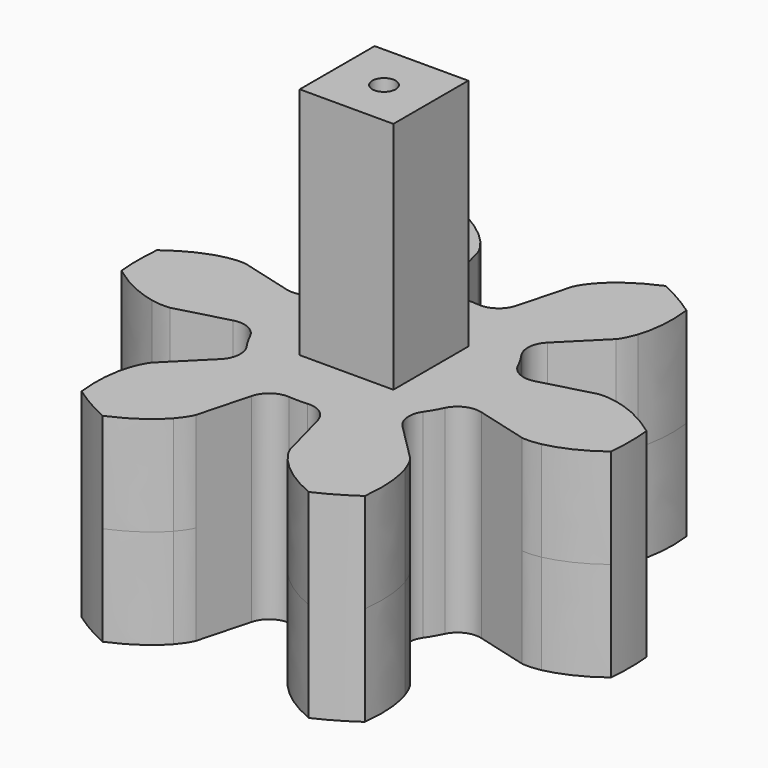
from build123d import *

# Parameters (mm, degrees)
PAD008_DEPTH    = 8.5
SKETCH005_W     = 8
SKETCH005_H     = 8
PAD009_DEPTH    = 20
SKETCH006_R     = 4.25
POCKET004_DEPTH = 16
SKETCH007_R     = 1
POCKET005_DEPTH = 37.001
CHAMFER031_SIZE = 1


with BuildPart() as part:
    # InvoluteGear008 → Pad008 (new body, symmetric)
    with BuildSketch(Plane.XY):
        with BuildLine():
            Line((10.601873, -2.861159), (15.042796, -4.054998))
            add(Edge.make_bspline(
                [(15.042796, -4.054998), (15.215743, -4.084713), (15.734347, -4.141847), (16.631566, -3.966879)],
                knots=[0, 0, 0, 0, 1, 1, 1, 1], degree=3))
            add(Edge.make_bspline(
                [(16.631566, -3.966879), (17.691129, -3.748692), (19.18532, -3.202739), (20.922763, -1.897572)],
                knots=[0, 0, 0, 0, 1, 1, 1, 1], degree=3))
            ThreePointArc((20.922763, -1.897572), (21.008672, 0), (20.922763, 1.897572))
            add(Edge.make_bspline(
                [(20.922763, 1.897572), (19.18532, 3.202739), (17.691129, 3.748692), (16.631566, 3.966879)],
                knots=[0, 0, 0, 0, 1, 1, 1, 1], degree=3))
            add(Edge.make_bspline(
                [(16.631566, 3.966879), (15.734347, 4.141847), (15.215743, 4.084713), (15.042796, 4.054998)],
                knots=[0, 0, 0, 0, 1, 1, 1, 1], degree=3))
            Line((15.042796, 4.054998), (10.601873, 2.861159))
            ThreePointArc((10.601873, 2.861159), (9.273949, 2.969617), (8.31918, 3.898896))
            ThreePointArc((8.31918, 3.898896), (7.956608, 4.59375), (7.536133, 5.255174))
            ThreePointArc((7.536133, 5.255174), (7.208739, 6.546667), (7.778773, 7.750912))
            Line((7.778773, 7.750912), (11.033129, 10.999944))
            add(Edge.make_bspline(
                [(11.033129, 10.999944), (11.145336, 11.134863), (11.454118, 11.55542), (11.751201, 12.419919)],
                knots=[0, 0, 0, 0, 1, 1, 1, 1], degree=3))
            add(Edge.make_bspline(
                [(11.751201, 12.419919), (12.092027, 13.446622), (12.366313, 15.013605), (12.104727, 17.170858)],
                knots=[0, 0, 0, 0, 1, 1, 1, 1], degree=3))
            ThreePointArc((12.104727, 17.170858), (10.504336, 18.194043), (8.818035, 19.06843))
            add(Edge.make_bspline(
                [(8.818035, 19.06843), (6.819007, 18.216344), (5.599102, 17.195313), (4.880365, 16.386798)],
                knots=[0, 0, 0, 0, 1, 1, 1, 1], degree=3))
            add(Edge.make_bspline(
                [(4.880365, 16.386798), (4.280228, 15.697268), (4.070406, 15.219576), (4.009667, 15.054942)],
                knots=[0, 0, 0, 0, 1, 1, 1, 1], degree=3))
            Line((4.009667, 15.054942), (2.8231, 10.612071))
            ThreePointArc((2.8231, 10.612071), (2.065211, 9.516284), (0.783047, 9.15407))
            ThreePointArc((0.783047, 9.15407), (0, 9.1875), (-0.783047, 9.15407))
            ThreePointArc((-0.783047, 9.15407), (-2.065211, 9.516284), (-2.8231, 10.612071))
            Line((-2.8231, 10.612071), (-4.009667, 15.054942))
            add(Edge.make_bspline(
                [(-4.009667, 15.054942), (-4.070406, 15.219576), (-4.280228, 15.697268), (-4.880365, 16.386798)],
                knots=[0, 0, 0, 0, 1, 1, 1, 1], degree=3))
            add(Edge.make_bspline(
                [(-4.880365, 16.386798), (-5.599102, 17.195313), (-6.819007, 18.216344), (-8.818035, 19.06843)],
                knots=[0, 0, 0, 0, 1, 1, 1, 1], degree=3))
            ThreePointArc((-8.818035, 19.06843), (-10.504336, 18.194043), (-12.104727, 17.170858))
            add(Edge.make_bspline(
                [(-12.104727, 17.170858), (-12.366313, 15.013605), (-12.092027, 13.446622), (-11.751201, 12.419919)],
                knots=[0, 0, 0, 0, 1, 1, 1, 1], degree=3))
            add(Edge.make_bspline(
                [(-11.751201, 12.419919), (-11.454118, 11.55542), (-11.145336, 11.134863), (-11.033129, 10.999944)],
                knots=[0, 0, 0, 0, 1, 1, 1, 1], degree=3))
            Line((-11.033129, 10.999944), (-7.778773, 7.750912))
            ThreePointArc((-7.778773, 7.750912), (-7.208739, 6.546667), (-7.536133, 5.255174))
            ThreePointArc((-7.536133, 5.255174), (-7.956608, 4.59375), (-8.31918, 3.898896))
            ThreePointArc((-8.31918, 3.898896), (-9.273949, 2.969617), (-10.601873, 2.861159))
            Line((-10.601873, 2.861159), (-15.042796, 4.054998))
            add(Edge.make_bspline(
                [(-15.042796, 4.054998), (-15.215743, 4.084713), (-15.734347, 4.141847), (-16.631566, 3.966879)],
                knots=[0, 0, 0, 0, 1, 1, 1, 1], degree=3))
            add(Edge.make_bspline(
                [(-16.631566, 3.966879), (-17.691129, 3.748692), (-19.18532, 3.202739), (-20.922763, 1.897572)],
                knots=[0, 0, 0, 0, 1, 1, 1, 1], degree=3))
            ThreePointArc((-20.922763, 1.897572), (-21.008672, 0), (-20.922763, -1.897572))
            add(Edge.make_bspline(
                [(-20.922763, -1.897572), (-19.18532, -3.202739), (-17.691129, -3.748692), (-16.631566, -3.966879)],
                knots=[0, 0, 0, 0, 1, 1, 1, 1], degree=3))
            add(Edge.make_bspline(
                [(-16.631566, -3.966879), (-15.734347, -4.141847), (-15.215743, -4.084713), (-15.042796, -4.054998)],
                knots=[0, 0, 0, 0, 1, 1, 1, 1], degree=3))
            Line((-15.042796, -4.054998), (-10.601873, -2.861159))
            ThreePointArc((-10.601873, -2.861159), (-9.273949, -2.969617), (-8.31918, -3.898896))
            ThreePointArc((-8.31918, -3.898896), (-7.956608, -4.59375), (-7.536133, -5.255174))
            ThreePointArc((-7.536133, -5.255174), (-7.208739, -6.546667), (-7.778773, -7.750912))
            Line((-7.778773, -7.750912), (-11.033129, -10.999944))
            add(Edge.make_bspline(
                [(-11.033129, -10.999944), (-11.145336, -11.134863), (-11.454118, -11.55542), (-11.751201, -12.419919)],
                knots=[0, 0, 0, 0, 1, 1, 1, 1], degree=3))
            add(Edge.make_bspline(
                [(-11.751201, -12.419919), (-12.092027, -13.446622), (-12.366313, -15.013605), (-12.104727, -17.170858)],
                knots=[0, 0, 0, 0, 1, 1, 1, 1], degree=3))
            ThreePointArc((-12.104727, -17.170858), (-10.504336, -18.194043), (-8.818035, -19.06843))
            add(Edge.make_bspline(
                [(-8.818035, -19.06843), (-6.819007, -18.216344), (-5.599102, -17.195313), (-4.880365, -16.386798)],
                knots=[0, 0, 0, 0, 1, 1, 1, 1], degree=3))
            add(Edge.make_bspline(
                [(-4.880365, -16.386798), (-4.280228, -15.697268), (-4.070406, -15.219576), (-4.009667, -15.054942)],
                knots=[0, 0, 0, 0, 1, 1, 1, 1], degree=3))
            Line((-4.009667, -15.054942), (-2.8231, -10.612071))
            ThreePointArc((-2.8231, -10.612071), (-2.065211, -9.516284), (-0.783047, -9.15407))
            ThreePointArc((-0.783047, -9.15407), (0, -9.1875), (0.783047, -9.15407))
            ThreePointArc((0.783047, -9.15407), (2.065211, -9.516284), (2.8231, -10.612071))
            Line((2.8231, -10.612071), (4.009667, -15.054942))
            add(Edge.make_bspline(
                [(4.009667, -15.054942), (4.070406, -15.219576), (4.280228, -15.697268), (4.880365, -16.386798)],
                knots=[0, 0, 0, 0, 1, 1, 1, 1], degree=3))
            add(Edge.make_bspline(
                [(4.880365, -16.386798), (5.599102, -17.195313), (6.819007, -18.216344), (8.818035, -19.06843)],
                knots=[0, 0, 0, 0, 1, 1, 1, 1], degree=3))
            ThreePointArc((8.818035, -19.06843), (10.504336, -18.194043), (12.104727, -17.170858))
            add(Edge.make_bspline(
                [(12.104727, -17.170858), (12.366313, -15.013605), (12.092027, -13.446622), (11.751201, -12.419919)],
                knots=[0, 0, 0, 0, 1, 1, 1, 1], degree=3))
            add(Edge.make_bspline(
                [(11.751201, -12.419919), (11.454118, -11.55542), (11.145336, -11.134863), (11.033129, -10.999944)],
                knots=[0, 0, 0, 0, 1, 1, 1, 1], degree=3))
            Line((11.033129, -10.999944), (7.778773, -7.750912))
            ThreePointArc((7.778773, -7.750912), (7.208739, -6.546667), (7.536133, -5.255174))
            ThreePointArc((7.536133, -5.255174), (7.956608, -4.59375), (8.31918, -3.898896))
            ThreePointArc((8.31918, -3.898896), (9.273949, -2.969617), (10.601873, -2.861159))
        make_face()
    extrude(amount=PAD008_DEPTH, both=True)

    # Sketch005 (on Face62 of Pad008) → Pad009 (join)
    with BuildSketch(Plane.XY.offset(8.5)):
        Rectangle(SKETCH005_W, SKETCH005_H)
    extrude(amount=PAD009_DEPTH)

    # Sketch006 (on Face4 of Pad009) → Pocket004 (cut)
    with BuildSketch(Plane(origin=(0, 0, -8.5), x_dir=(1, 0, 0), z_dir=(0, 0, -1))):
        Circle(SKETCH006_R)
    extrude(amount=-POCKET004_DEPTH, mode=Mode.SUBTRACT)

    # Sketch007 (on Face69 of Pocket004) → Pocket005 (cut, through all)
    with BuildSketch(Plane.XY.offset(28.5)):
        Circle(SKETCH007_R)
    extrude(amount=-POCKET005_DEPTH, mode=Mode.SUBTRACT)

    # Chamfer031
    chamfer031_edges = [part.edges().sort_by_distance(p)[0] for p in [
        (-4.25, 0, -8.5),
    ]]
    chamfer(chamfer031_edges, length=CHAMFER031_SIZE)


with BuildPart() as part_1:
    # Body004 placement: moved
    add(part.part.moved(Location((-238, 0, 0))))


solid = part_1.part
